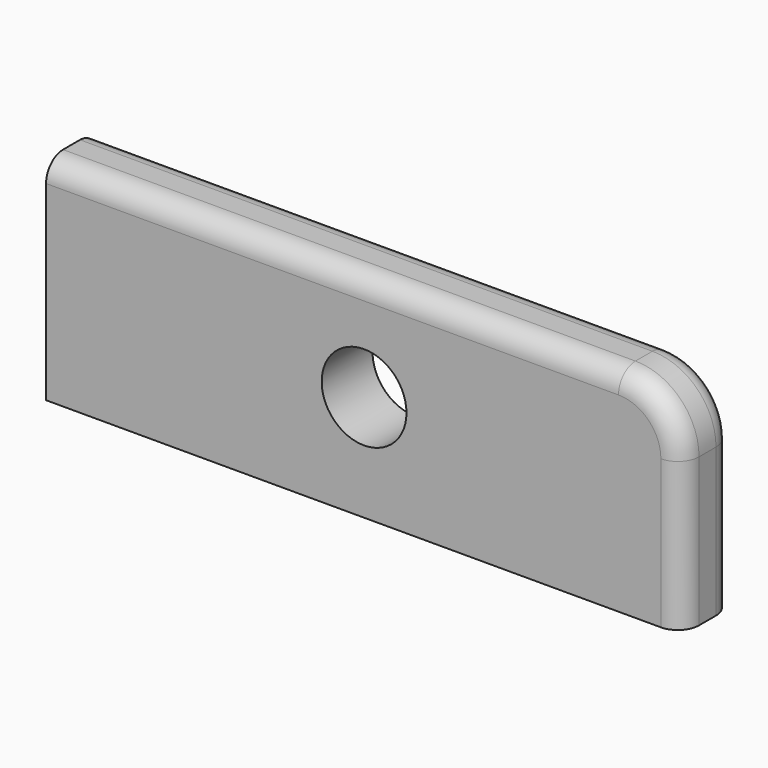
from build123d import *

# Parameters (mm, degrees)
F0_R     = 2
F1_DEPTH = 3
F2_R     = 1


with BuildPart() as f1:
    # F0 (on Front) → F1 (new body)
    with BuildSketch(Plane.XZ):
        with BuildLine():
            ThreePointArc((0, -3), (-0.87868, -0.87868), (-3, 0))
            Line((-3, 0), (-30, 0))
            Line((-30, 0), (-30, -10))
            Line((-30, -10), (0, -10))
            Line((0, -10), (0, -3))
        make_face()
        with Locations((-15, -5)):
            Circle(F0_R, mode=Mode.SUBTRACT)
    extrude(amount=F1_DEPTH)

    # F2
    f2_edges = [f1.edges().sort_by_distance(p)[0] for p in [
        (-16.5, -3, 0),
        (-16.5, 0, 0),
    ]]
    fillet(f2_edges, radius=F2_R)


solid = f1.part
